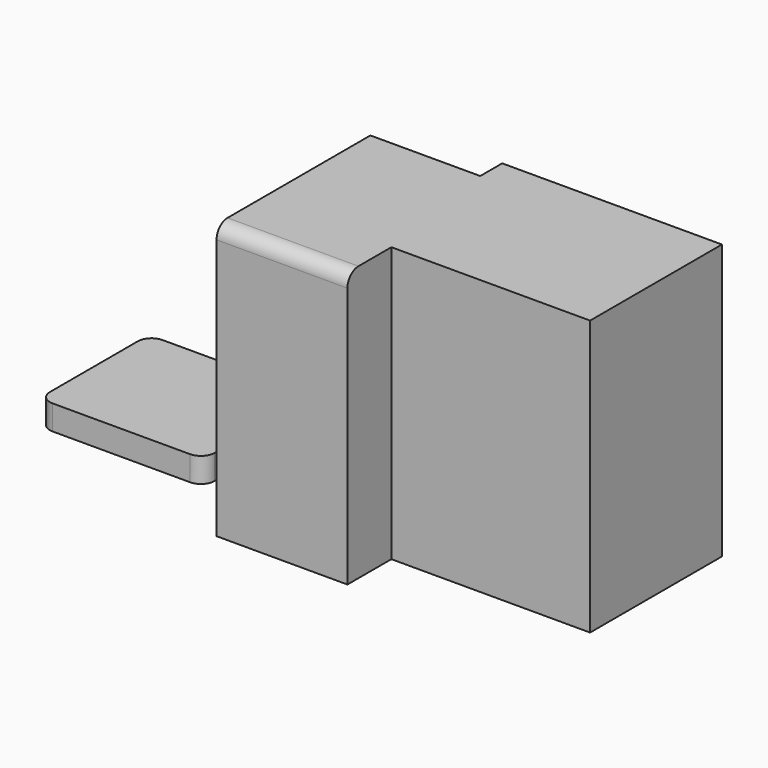
from build123d import *

# Parameters (mm, degrees)
F1_DEPTH = 100
F2_R     = 5
F3_W     = 60
F3_H     = 49.999997
F4_DEPTH = 9
F5_R     = 5


with BuildPart() as f1:
    # F0 (on Top) → F1 (new body)
    with BuildSketch(Plane.XY):
        Polygon((60.30023, 29.707996), (-19.69977, 29.707996), (-19.69977, 19.707996), (-59.69977, 19.707996), (-59.69977, -50.292004), (-12.045462, -50.292004), (-12.045462, -30.292004), (60.30023, -30.292004), align=None)
    extrude(amount=F1_DEPTH)

    # F2
    f2_edges = [f1.edges().sort_by_distance(p)[0] for p in [
        (-35.872616, -50.292004, 100),
    ]]
    fillet(f2_edges, radius=F2_R)


with BuildPart() as f4:
    # F3 (on Top) → F4 (new body)
    with BuildSketch(Plane.XY):
        with Locations((-111.350864, -4.064405)):
            Rectangle(F3_W, F3_H)
    extrude(amount=F4_DEPTH)

    # F5
    f5_edges = [f4.edges().sort_by_distance(p)[0] for p in [
        (-141.350864, 20.935594, 4.5),
        (-141.350864, -29.064403, 4.5),
        (-81.350864, -29.064403, 4.5),
        (-81.350864, 20.935594, 4.5),
    ]]
    fillet(f5_edges, radius=F5_R)


solid = Compound([f1.part, f4.part])
